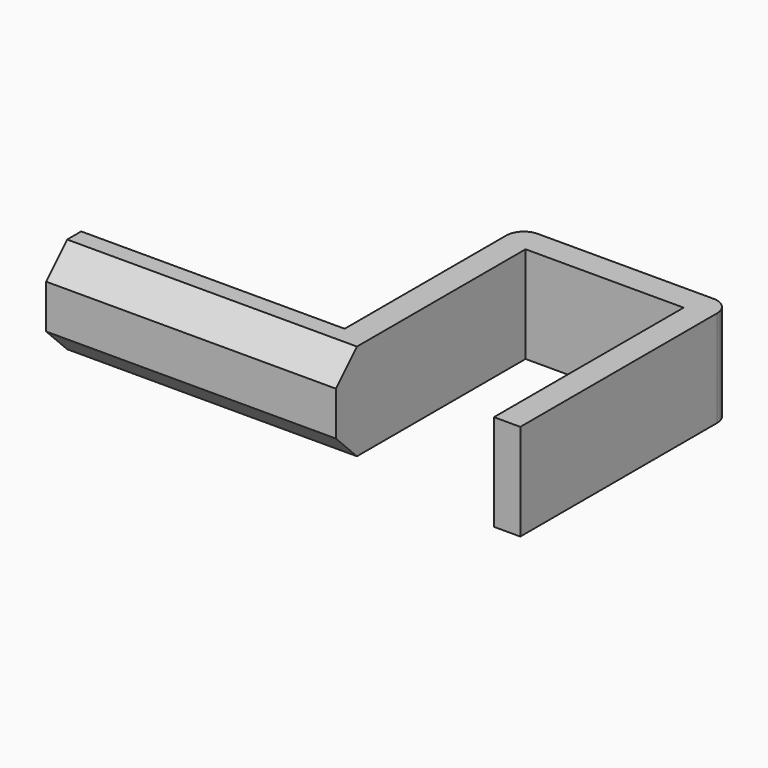
from build123d import *

# Parameters (mm, degrees)
PAD_DEPTH    = 11
CHAMFER_SIZE = 3
FILLET_R     = 2


with BuildPart() as part:
    # Sketch → Pad (new body)
    with BuildSketch(Plane.XY):
        Polygon((-22.800474, -3.599016), (-22.800474, -8.599016), (10.199526, -8.599016), (10.199526, 18.400984), (28.199526, 18.400984), (28.199526, -8.599016), (31.199526, -8.599016), (31.199526, 21.400984), (7.199526, 21.400984), (7.199526, -3.599016), align=None)
    extrude(amount=PAD_DEPTH)

    # Chamfer
    chamfer_edges = [part.edges().sort_by_distance(p)[0] for p in [
        (-6.300474, -8.599016, 0),
        (-6.300474, -8.599016, 11),
    ]]
    chamfer(chamfer_edges, length=CHAMFER_SIZE)

    # Fillet
    fillet_edges = [part.edges().sort_by_distance(p)[0] for p in [
        (31.199526, 21.400984, 5.5),
        (7.199526, 21.400984, 5.5),
    ]]
    fillet(fillet_edges, radius=FILLET_R)


solid = part.part
